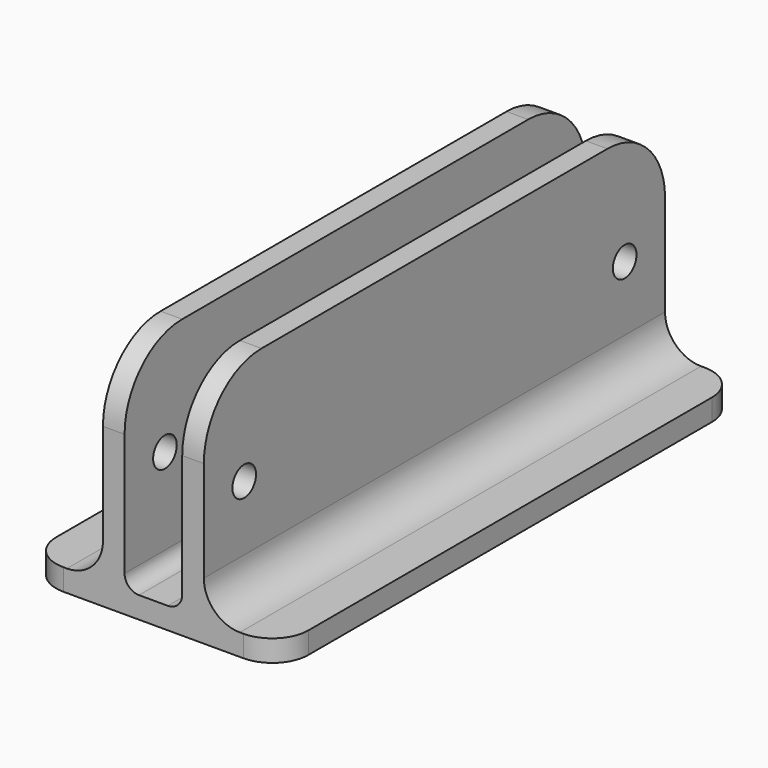
from build123d import *

# Parameters (mm, degrees)
F1_DEPTH = 40
F2_R     = 2
F3_R     = 10
F4_R     = 2.05
F5_DEPTH = 14
F6_R     = 5
F7_R     = 5


with BuildPart() as f1:
    # F0 (on Front) → F1 (new body, symmetric)
    with BuildSketch(Plane.XZ):
        Polygon((-17.5, 3), (-17.5, 0), (17.5, 0), (17.5, 3), (7, 3), (7, 32), (4, 32), (4, 3), (-4, 3), (-4, 32), (-7, 32), (-7, 3), align=None)
    extrude(amount=F1_DEPTH, both=True)

    # F2
    f2_edges = [f1.edges().sort_by_distance(p)[0] for p in [
        (-4, 0, 3),
        (4, 0, 3),
    ]]
    fillet(f2_edges, radius=F2_R)

    # F3
    f3_edges = [f1.edges().sort_by_distance(p)[0] for p in [
        (5.5, 40, 32),
        (-5.5, 40, 32),
        (5.5, -40, 32),
        (-5.5, -40, 32),
    ]]
    fillet(f3_edges, radius=F3_R)

    # F4 (on face) → F5 (cut, through all)
    with BuildSketch(Plane.YZ.offset(7)):
        with Locations((-33, 17)):
            Circle(F4_R)
        with Locations((33, 17)):
            Circle(F4_R)
    extrude(amount=-F5_DEPTH, mode=Mode.SUBTRACT)

    # F6
    f6_edges = [f1.edges().sort_by_distance(p)[0] for p in [
        (7, 0, 3),
        (-7, 0, 3),
    ]]
    fillet(f6_edges, radius=F6_R)

    # F7
    f7_edges = [f1.edges().sort_by_distance(p)[0] for p in [
        (-17.5, -40, 1.5),
        (17.5, -40, 1.5),
        (17.5, 40, 1.5),
        (-17.5, 40, 1.5),
    ]]
    fillet(f7_edges, radius=F7_R)


solid = f1.part
